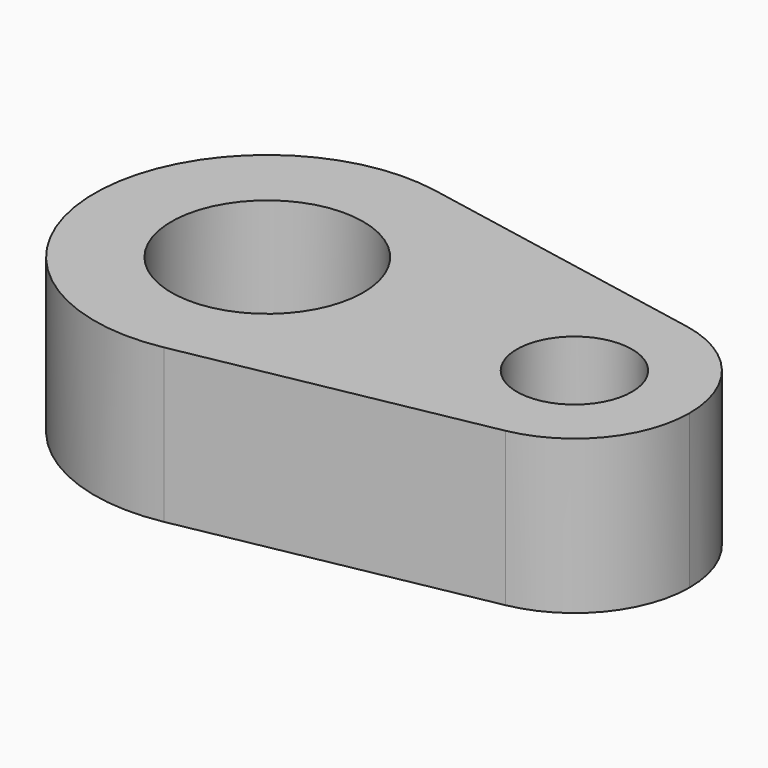
from build123d import *

# Parameters (mm, degrees)
F0_R     = 15.875
F0_R_2   = 9.525
F1_DEPTH = 25.4


with BuildPart() as f1:
    # F0 (on Top) → F1 (new body)
    with BuildSketch(Plane.XY):
        with BuildLine():
            ThreePointArc((5.357813, -28.068211), (22.018516, -18.21306), (28.575, 0))
            ThreePointArc((28.575, 0), (22.018516, 18.21306), (5.357812, 28.068211))
            ThreePointArc((5.357812, 28.068211), (-28.575, 0), (5.357813, -28.068211))
        make_face()
        Circle(F0_R, mode=Mode.SUBTRACT)
        with BuildLine():
            ThreePointArc((69.85, 0), (65.479011, 12.14204), (54.371875, 18.712141))
            ThreePointArc((54.371875, 18.712141), (31.75, 0), (54.371875, -18.712141))
            ThreePointArc((54.371875, -18.712141), (65.479011, -12.14204), (69.85, 0))
        make_face()
        with Locations((50.8, 0)):
            Circle(F0_R_2, mode=Mode.SUBTRACT)
        with BuildLine():
            ThreePointArc((5.357812, 28.068211), (22.018516, 18.21306), (28.575, 0))
            ThreePointArc((28.575, 0), (22.018516, -18.21306), (5.357813, -28.068211))
            Line((5.357813, -28.068211), (54.371875, -18.712141))
            ThreePointArc((54.371875, -18.712141), (31.75, 0), (54.371875, 18.712141))
            Line((54.371875, 18.712141), (5.357812, 28.068211))
        make_face()
    extrude(amount=F1_DEPTH)


solid = f1.part
